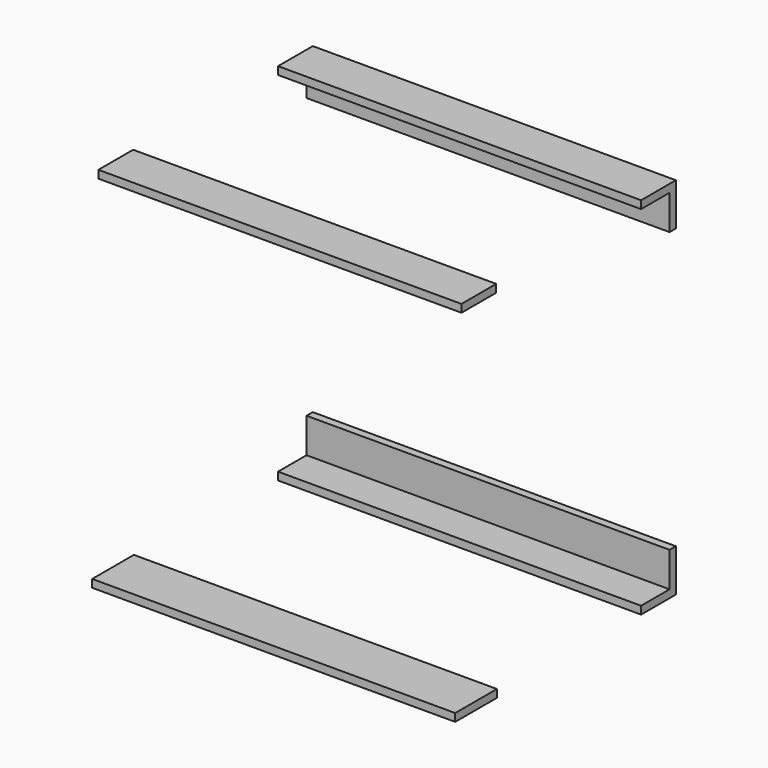
from build123d import *

# Parameters (mm, degrees)
F0_W     = 18
F0_H     = 80
F0_W_2   = 100
F0_H_2   = 18
F0_W_3   = 120
F1_DEPTH = 836


with BuildPart() as f1:
    # F0 (on Right) → F1 (new body)
    with BuildSketch(Plane.YZ):
        Polygon((317.5, 402), (317.5, 420), (217.5, 420), (217.5, 402), (299.5, 402), align=None)
        with Locations((308.5, 362)):
            Rectangle(F0_W, F0_H)
        with Locations((-249.5, 411)):
            Rectangle(F0_W_2, F0_H_2)
        with Locations((-257.5, -411)):
            Rectangle(F0_W_3, F0_H_2)
        Polygon((217.5, -420), (317.5, -420), (317.5, -402), (299.5, -402), (217.5, -402), align=None)
        with Locations((308.5, -362)):
            Rectangle(F0_W, F0_H)
    extrude(amount=F1_DEPTH)


solid = f1.part
